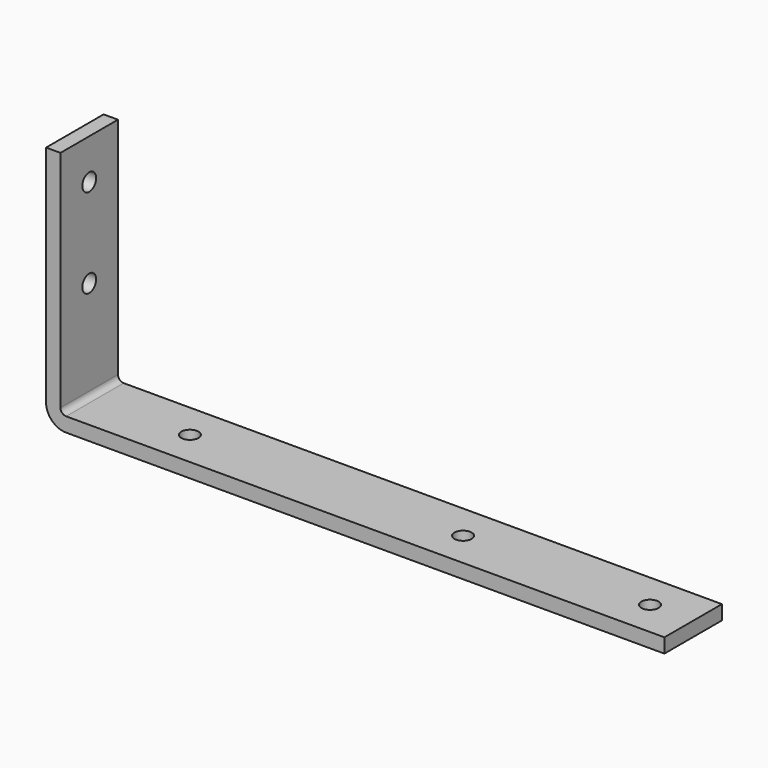
from build123d import *

# Parameters (mm, degrees)
F1_DEPTH      = 12.5
F1_DEPTH_BACK = 12.5
F4_D          = 6
F4_ON_F3_D    = 6


with BuildPart() as f1:
    # F0 (on Front) → F1 (new body, two sides)
    with BuildSketch(Plane.XZ) as f1_sk:
        with BuildLine():
            Line((5, 85), (0, 85))
            Line((0, 85), (0, 7))
            ThreePointArc((0, 7), (2.0502525317, 2.0502525317), (7, 0))
            Line((7, 0), (215, 0))
            Line((215, 0), (215, 5))
            Line((215, 5), (7, 5))
            ThreePointArc((7, 5), (5.5857864376, 5.5857864376), (5, 7))
            Line((5, 7), (5, 85))
        make_face()
    extrude(amount=F1_DEPTH)
    extrude(f1_sk.sketch, amount=-F1_DEPTH_BACK)

    # F4 (through all)
    with Locations(Plane(origin=(0, 0, 0), x_dir=(1, 0, 0), z_dir=(0, 0, -1))):
        with Locations((200, 0), (135, 0), (40, 0)):
            Hole(F4_D / 2)

    # F4 on F3 (through all)
    with Locations(Plane(origin=(0, 0, 0), x_dir=(0, -1, 0), z_dir=(-1, 0, 0))):
        with Locations((0, 40), (0, 71)):
            Hole(F4_ON_F3_D / 2)


solid = f1.part
